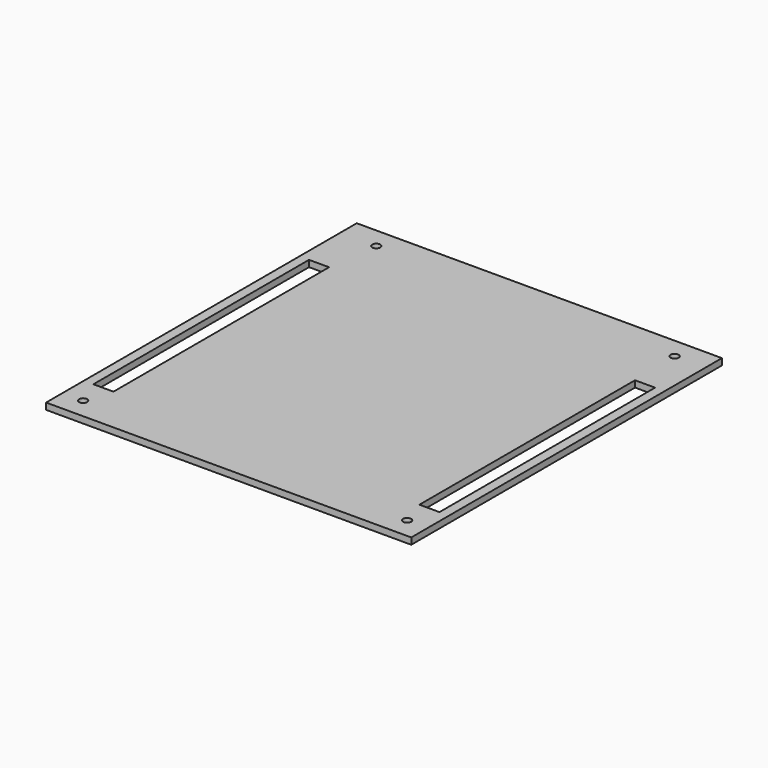
from build123d import *

# Parameters (mm, degrees)
F1_DEPTH = 1.6
F2_D     = 2


with BuildPart() as f1:
    # F0 (on Top) → F1 (new body)
    with BuildSketch(Plane.XY):
        Polygon((-3.415, 47.39), (-48.5, 47.39), (-48.5, -0.555), (-46.141859144, -0.555), (-46.141859144, 29.7052749931), (-41.188859144, 29.7052749931), (-41.188859144, -0.555), (-3.415, -0.555), align=None)
        Polygon((41.67, 47.39), (-3.415, 47.39), (-3.415, -0.555), (34.358859144, -0.555), (34.358859144, 29.7052749931), (39.311859144, 29.7052749931), (39.311859144, -0.555), (41.67, -0.555), align=None)
        Polygon((-46.141859144, -0.555), (-48.5, -0.555), (-48.5, -48.5), (-3.415, -48.5), (-3.415, -0.555), (-41.188859144, -0.555), (-41.188859144, -36.8427250069), (-46.141859144, -36.8427250069), align=None)
        Polygon((34.358859144, -0.555), (-3.415, -0.555), (-3.415, -48.5), (41.67, -48.5), (41.67, -0.555), (39.311859144, -0.555), (39.311859144, -36.8427250069), (34.358859144, -36.8427250069), align=None)
    extrude(amount=F1_DEPTH)

    # F2 (through all)
    with Locations(Plane(origin=(0, 0, 0), x_dir=(1, 0, 0), z_dir=(0, 0, -1))):
        with Locations((-39.61, -42.31), (-43.42, 43.42), (36.59, 43.42), (34.05, -42.31)):
            Hole(F2_D / 2)


solid = f1.part
